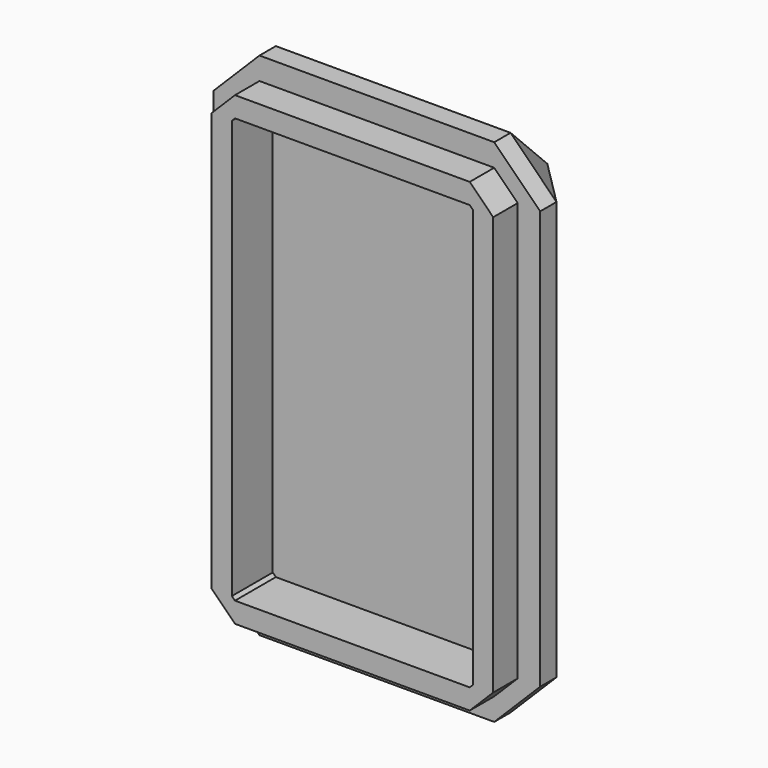
from build123d import *

# Parameters (mm, degrees)
F0_W     = 32
F0_H     = 50
F1_DEPTH = 15
F2_SIZE  = 4.5
F3_W     = 44.522483
F3_H     = 61.777794
F4_DEPTH = 8.5
F6_DEPTH = 3
F8_DEPTH = 5


with BuildPart() as f1:
    # F0 (on Front) → F1 (new body)
    with BuildSketch(Plane.XZ):
        with Locations((16, 25)):
            Rectangle(F0_W, F0_H)
    extrude(amount=F1_DEPTH)

    # F2
    f2_edges = [f1.edges().sort_by_distance(p)[0] for p in [
        (0, -7.5, 50),
        (0, -7.5, 0),
        (0, 0, 25),
        (0, -15, 25),
        (16, 0, 0),
        (32, 0, 25),
        (16, 0, 50),
        (32, -7.5, 50),
        (16, -15, 50),
        (32, -7.5, 0),
        (32, -15, 25),
        (16, -15, 0),
    ]]
    chamfer(f2_edges, length=F2_SIZE)

    # F3 (on face) → F4 (cut)
    with BuildSketch(Plane.XZ.offset(15)):
        with Locations((18.562658, 27.901019)):
            Rectangle(F3_W, F3_H)
    extrude(amount=-F4_DEPTH, mode=Mode.SUBTRACT)

    # F5 (on face) → F6 (join)
    with BuildSketch(Plane.XZ.offset(6.5)):
        Polygon((2.2, 4.5), (4.5, 2.2), (27.5, 2.2), (29.8, 4.5), (29.8, 45.5), (27.5, 47.8), (4.5, 47.8), (2.2, 45.5), align=None)
    extrude(amount=F6_DEPTH)

    # F7 (on face) → F8 (cut)
    with BuildSketch(Plane.XZ.offset(9.5)):
        Polygon((4.2, 4.5), (4.5, 4.2), (27.5, 4.2), (27.8, 4.5), (27.8, 45.5), (27.5, 45.8), (4.5, 45.8), (4.2, 45.5), align=None)
    extrude(amount=-F8_DEPTH, mode=Mode.SUBTRACT)


solid = f1.part
